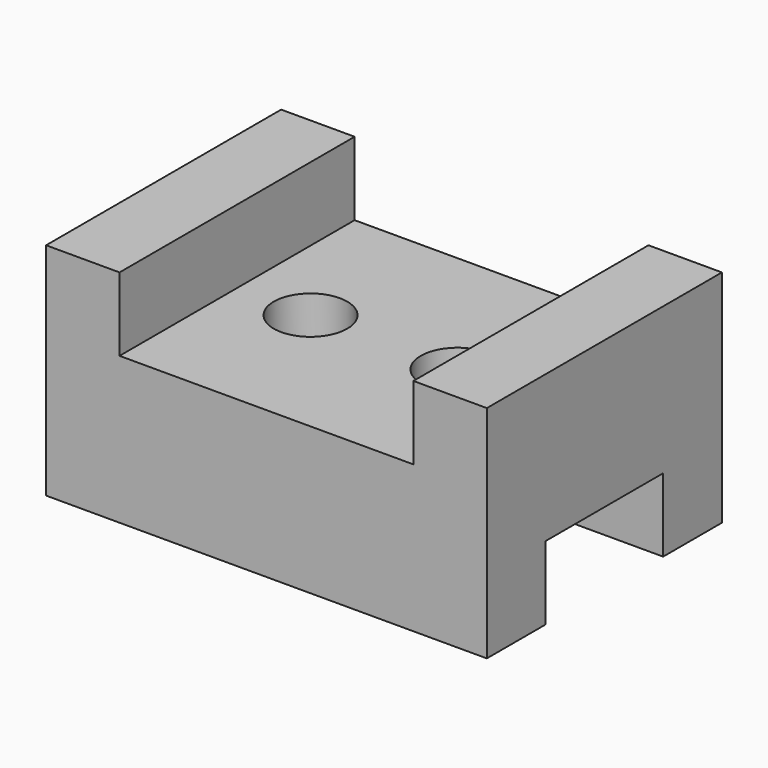
from build123d import *

# Parameters (mm, degrees)
F0_W     = 30
F0_H     = 20
F1_DEPTH = 10
F2_W     = 5
F2_H     = 20
F3_DEPTH = 5
F4_R     = 2.5
F5_DEPTH = 10.001
F7_DEPTH = 10.001
F8_W     = 10
F8_H     = 5
F9_DEPTH = 30.001


with BuildPart() as f1:
    # F0 (on Top) → F1 (new body)
    with BuildSketch(Plane.XY):
        with Locations((4.2107195362, -27.6951151714)):
            Rectangle(F0_W, F0_H)
    extrude(amount=F1_DEPTH)

    # F2 (on face) → F3 (join)
    with BuildSketch(Plane.XY.offset(10)):
        with Locations((-8.2892804638, -27.6951151714)):
            Rectangle(F2_W, F2_H)
        with Locations((16.7107195362, -27.6951151714)):
            Rectangle(F2_W, F2_H)
    extrude(amount=F3_DEPTH)

    # F4 (on face) → F5 (cut, through all)
    with BuildSketch(Plane.XY.offset(10)):
        with Locations((-0.7892804638, -27.6951151714)):
            Circle(F4_R)
    extrude(amount=-F5_DEPTH, mode=Mode.SUBTRACT)

    # F6 (on face) → F7 (cut, through all)
    with BuildSketch(Plane.XY.offset(10)):
        with BuildLine():
            ThreePointArc((9.2107195362, -25.1951151714), (6.7107195362, -27.6951151714), (9.2107195362, -30.1951151714))
            Line((9.2107195362, -30.1951151714), (9.2107195362, -25.1951151714))
        make_face()
        with BuildLine():
            Line((9.2107195362, -25.1951151714), (9.2107195362, -30.1951151714))
            ThreePointArc((9.2107195362, -30.1951151714), (10.9784864892, -29.4628821243), (11.7107195362, -27.6951151714))
            ThreePointArc((11.7107195362, -27.6951151714), (10.9784864892, -25.9273482184), (9.2107195362, -25.1951151714))
        make_face()
    extrude(amount=-F7_DEPTH, mode=Mode.SUBTRACT)

    # F8 (on face) → F9 (cut, through all)
    with BuildSketch(Plane.YZ.offset(19.2107195362)):
        with Locations((-27.6951151714, 2.5)):
            Rectangle(F8_W, F8_H)
    extrude(amount=-F9_DEPTH, mode=Mode.SUBTRACT)


solid = f1.part
